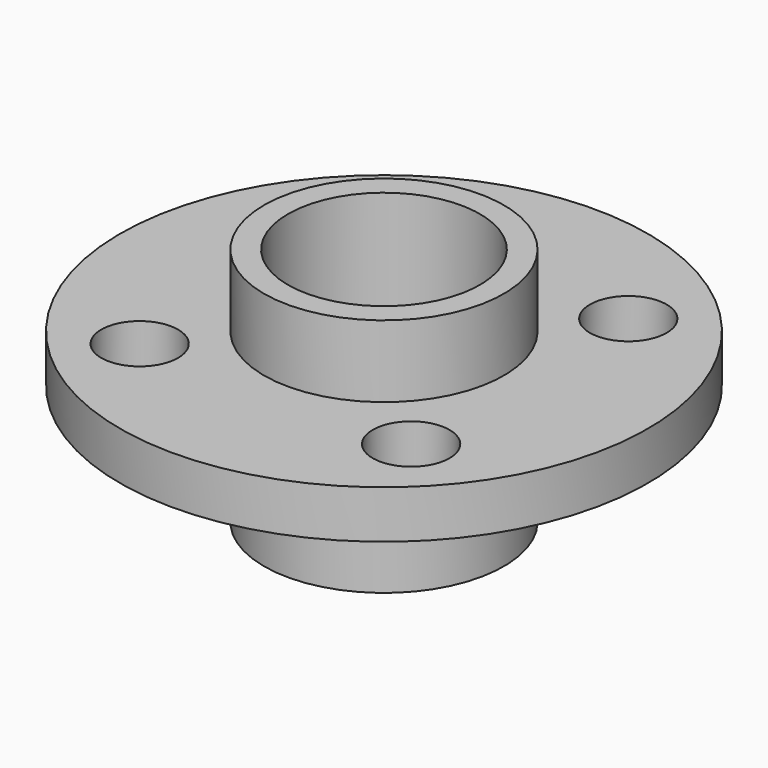
from build123d import *

# Parameters (mm, degrees)
CYLINDER019_R          = 1.6
CYLINDER019_DEPTH      = 23
ARRAY007_COUNT         = 4
CYLINDER016_R          = 4
CYLINDER016_DEPTH      = 350
CYLINDER018_R          = 5
CYLINDER018_DEPTH      = 10
CYLINDER017_R          = 11
CYLINDER017_DEPTH      = 2
CUT019_PLACEMENT_ANGLE = 45


with BuildPart() as array007:
    # Cylinder019 → Cylinder019 (new body)
    with BuildSketch(Plane(origin=(8, 0, 0), x_dir=(1, 0, 0), z_dir=(0, 0, 1))):
        Circle(CYLINDER019_R)
    extrude(amount=CYLINDER019_DEPTH)

    # Array007: Array007 ×4 about axis
    array007_axis = Axis((0, 0, 0), (0, 0, 1))


with BuildPart() as array007_1:
    add(array007.part)
    for i in range(1, ARRAY007_COUNT):
        add(array007.part.rotate(array007_axis, i * 360 / ARRAY007_COUNT))


with BuildPart() as cilindro016:
    # Cylinder016 → Cylinder016 (new body)
    with BuildSketch(Plane.XY):
        Circle(CYLINDER016_R)
    extrude(amount=CYLINDER016_DEPTH)


with BuildPart() as interior:
    # Cylinder018 → Cylinder018 (new body)
    with BuildSketch(Plane.XY):
        Circle(CYLINDER018_R)
    extrude(amount=CYLINDER018_DEPTH)


with BuildPart() as obj1:
    # Cylinder017 → Cylinder017 (new body)
    with BuildSketch(Plane.XY.offset(5)):
        Circle(CYLINDER017_R)
    extrude(amount=CYLINDER017_DEPTH)

    # Fusion018: union interior
    add(interior.part)


with BuildPart() as obj1_1:
    # Fusion018 placement: moved
    add(obj1.part.moved(Location((0, 0, 6))))

    # Cut018: cut Cilindro016
    add(cilindro016.part, mode=Mode.SUBTRACT)

    # Cut019: cut Array007
    add(array007_1.part, mode=Mode.SUBTRACT)


with BuildPart() as obj1_2:
    # Cut019 placement: moved
    add(obj1_1.part.moved(Location((22.5, -91, 22))).rotate(Axis((22.5, -91, 22), (0, 0, 1)), CUT019_PLACEMENT_ANGLE))


solid = obj1_2.part
